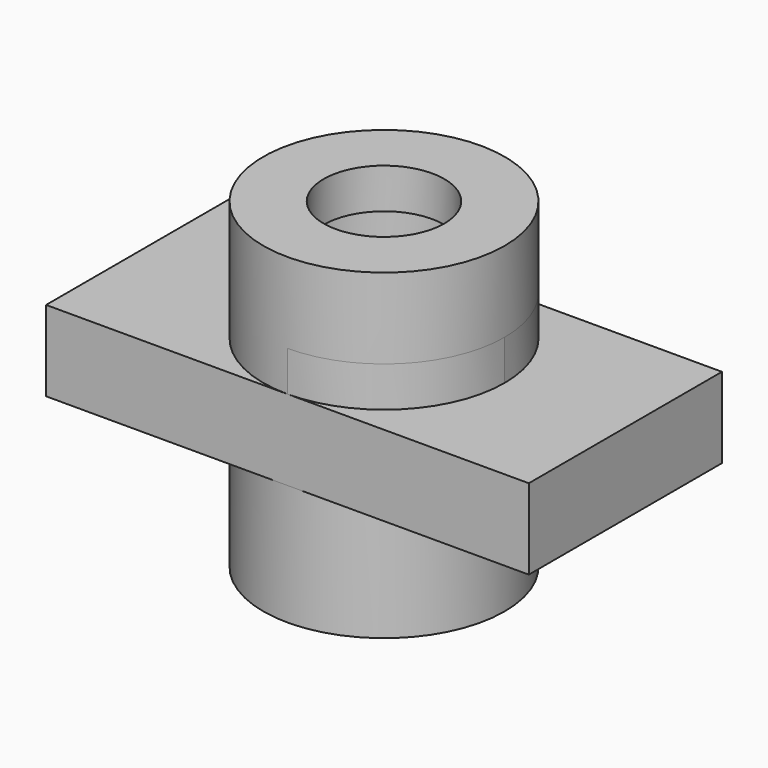
from build123d import *

# Parameters (mm, degrees)
F0_W      = 76.2
F0_H      = 12.7
F1_DEPTH  = 38.1
F2_R      = 9.525
F3_DEPTH  = 6.35
F3_FACE_R = 9.525
F4_DEPTH  = 12.701
F5_R      = 19.05
F5_R_2    = 9.525
F6_DEPTH  = 19.05
F7_R      = 19.05
F7_R_2    = 12.7
F8_DEPTH  = 6.35
F9_R      = 19.05
F9_R_2    = 9.525
F10_DEPTH = 6.35


with BuildPart() as f1:
    # F0 (on Front) → F1 (new body)
    with BuildSketch(Plane.XZ):
        with Locations((38.1, 6.35)):
            Rectangle(F0_W, F0_H)
    extrude(amount=F1_DEPTH)

    # F2 (on face) → F3 (join)
    with BuildSketch(Plane.XY.offset(12.7)):
        with BuildLine():
            ThreePointArc((38.1, -38.1), (51.570384, -32.520384), (57.15, -19.05))
            ThreePointArc((57.15, -19.05), (51.570384, -5.579616), (38.1, 0))
            ThreePointArc((38.1, 0), (19.05, -19.05), (38.1, -38.1))
        make_face()
        with Locations((38.1, -19.05)):
            Circle(F2_R, mode=Mode.SUBTRACT)
    extrude(amount=F3_DEPTH)

    # F3_face (on face) → F4 (cut, through all)
    with BuildSketch(Plane(origin=(38.1, -19.05, 12.7), x_dir=(1, 0, 0), z_dir=(0, 0, 1))):
        Circle(F3_FACE_R)
    extrude(amount=-F4_DEPTH, mode=Mode.SUBTRACT)

    # F5 (on face) → F6 (join)
    with BuildSketch(Plane(origin=(0, 0, 0), x_dir=(1, 0, 0), z_dir=(0, 0, -1))):
        with Locations((38.1, 19.05)):
            Circle(F5_R)
        with Locations((38.1, 19.05)):
            Circle(F5_R_2, mode=Mode.SUBTRACT)
    extrude(amount=F6_DEPTH)

    # F7 (on face) → F8 (join)
    with BuildSketch(Plane.XY.offset(19.05)):
        with Locations((38.1, -19.05)):
            Circle(F7_R)
        with Locations((38.1, -19.05)):
            Circle(F7_R_2, mode=Mode.SUBTRACT)
    extrude(amount=F8_DEPTH)

    # F9 (on face) → F10 (join)
    with BuildSketch(Plane.XY.offset(25.4)):
        with Locations((38.1, -19.05)):
            Circle(F9_R)
        with Locations((38.1, -19.05)):
            Circle(F9_R_2, mode=Mode.SUBTRACT)
        with Locations((38.1, -19.05)):
            Circle(F9_R)
        with Locations((38.1, -19.05)):
            Circle(F9_R_2, mode=Mode.SUBTRACT)
    extrude(amount=F10_DEPTH)


solid = f1.part
